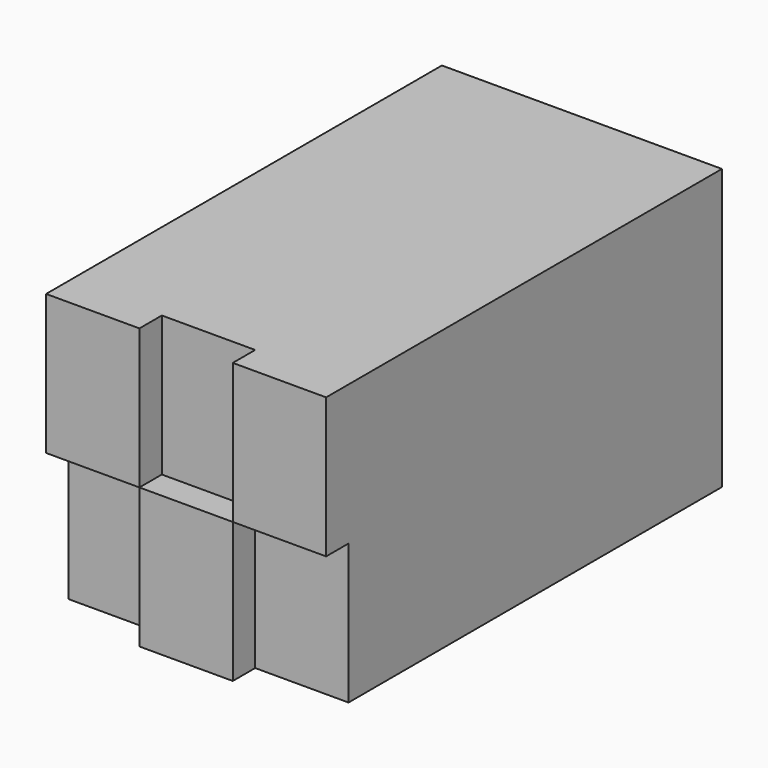
from build123d import *

# Parameters (mm, degrees)
BOX001_W     = 100
BOX001_H     = 30
BOX001_DEPTH = 150
BOX_W        = 300
BOX_H        = 500
BOX_DEPTH    = 300


with BuildPart() as cube001:
    # Box001 → Box001 (new body)
    with BuildSketch(Plane(origin=(50, -30, 0), x_dir=(1, 0, 0), z_dir=(0, 0, 1))):
        with Locations((50, 15)):
            Rectangle(BOX001_W, BOX001_H)
    extrude(amount=BOX001_DEPTH)


with BuildPart() as cube002:
    # Clone base: copy of Cube001
    add(cube001.part)


with BuildPart() as cube002_1:
    # Clone placement: moved
    add(cube002.part.moved(Location((-200, 0, 0))))


with BuildPart() as cube003:
    # Clone001 base: copy of Cube002
    add(cube002_1.part)


with BuildPart() as cube003_1:
    # Clone001 placement: moved
    add(cube003.part.moved(Location((100, 0, -150))))


with BuildPart() as fusion:
    # Box → Box (new body)
    with BuildSketch(Plane(origin=(-150, 0, -150), x_dir=(1, 0, 0), z_dir=(0, 0, 1))):
        with Locations((150, 250)):
            Rectangle(BOX_W, BOX_H)
    extrude(amount=BOX_DEPTH)

    # Fusion: union Cube001, Cube002, Cube003
    add(cube001.part)
    add(cube002_1.part)
    add(cube003_1.part)


solid = fusion.part
